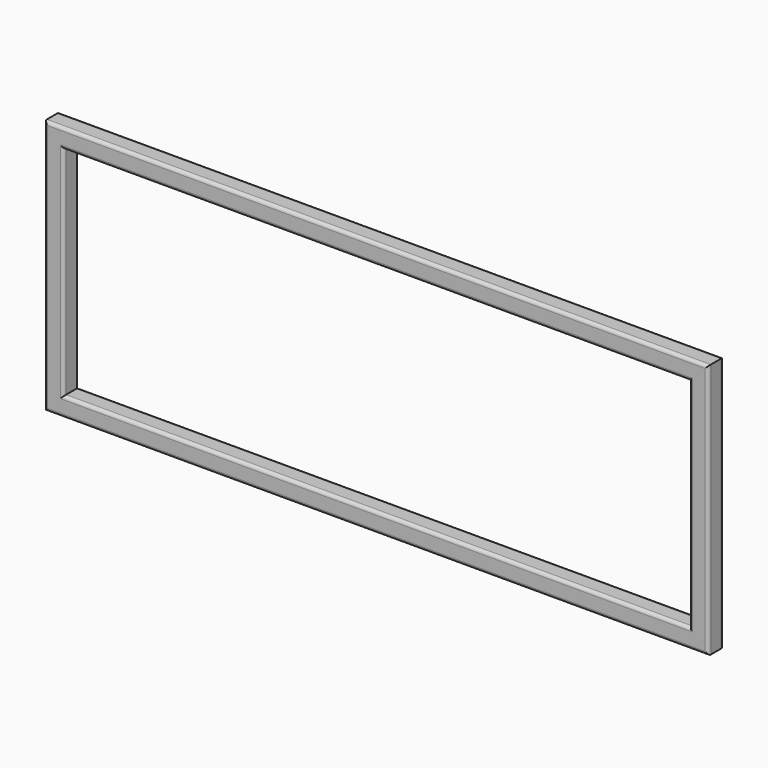
from build123d import *


with BuildPart() as f2:
    # F2: sweep along a path in F0
    with BuildLine(Plane.XZ) as f2_path:
        Line((660.4, 0), (0, 0))
        Line((0, 0), (-660.4, 0))
        Line((-660.4, 0), (-660.4, 508))
        Line((-660.4, 508), (660.4, 508))
        Line((660.4, 508), (660.4, 0))
    # F1 (on Right) → F2 (sweep)
    with BuildSketch(Plane.YZ):
        with BuildLine():
            Line((-12.7, 0), (0, 0))
            Line((0, 0), (12.7, 0))
            ThreePointArc((12.7, 0), (17.1901280605, 1.8598719395), (19.05, 6.35))
            Line((19.05, 6.35), (19.05, 31.75))
            ThreePointArc((19.05, 31.75), (17.1901280605, 36.2401280605), (12.7, 38.1))
            Line((12.7, 38.1), (-12.7, 38.1))
            ThreePointArc((-12.7, 38.1), (-17.1901280605, 36.2401280605), (-19.05, 31.75))
            Line((-19.05, 31.75), (-19.05, 6.35))
            ThreePointArc((-19.05, 6.35), (-17.1901280605, 1.8598719395), (-12.7, 0))
        make_face()
    sweep(path=f2_path.line, transition=Transition.RIGHT)


solid = f2.part
